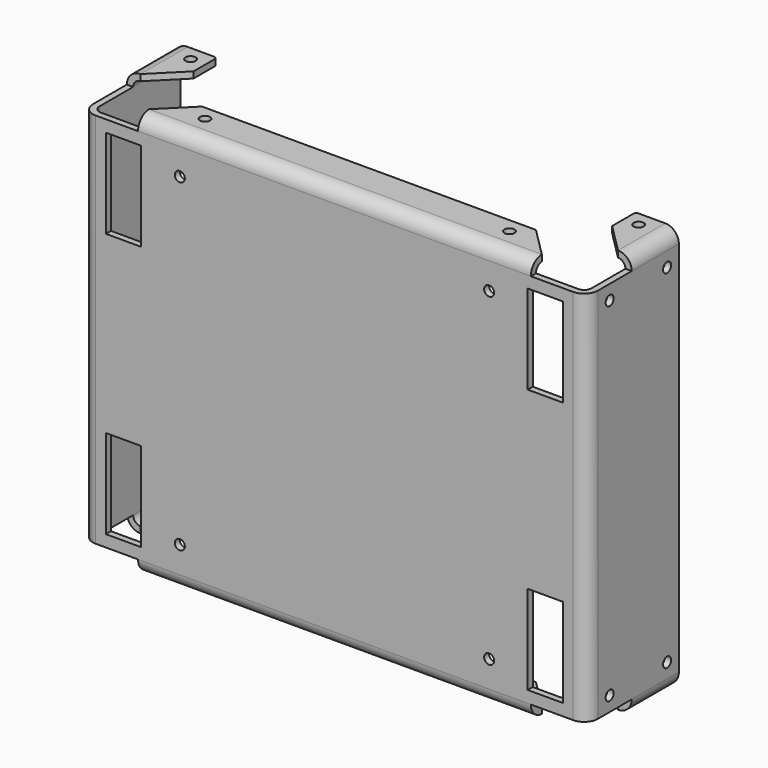
from build123d import *

# Parameters (mm, degrees)
F1_DEPTH  = 101.6
F2_W      = 1.70942
F2_H      = 15.875
F2_W_2    = 105.865218
F2_H_2    = 1.70942
F3_DEPTH  = 3.69316
F4_W      = 1.70942
F4_H      = 15.875
F4_W_2    = 105.865218
F4_H_2    = 1.70942
F5_DEPTH  = 3.69316
F6_W      = 105.865218
F6_H      = 1.70942
F7_DEPTH  = 9.92124
F8_W      = 15.875
F8_H      = 1.70942
F9_DEPTH  = 9.92124
F10_W     = 15.875
F10_H     = 1.70942
F11_DEPTH = 9.92124
F12_R     = 1.98374
F13_R     = 3.69316
F14_SIZE  = 7.9375
F15_R     = 1.35255
F16_DEPTH = 108.98632
F17_R     = 0.762
F18_R     = 1.35255
F19_DEPTH = 1.70942
F20_W     = 9.532924
F20_H     = 24
F20_R     = 1.35255
F21_DEPTH = 1.70942
F22_R     = 1.7272
F23_DEPTH = 1.70942


with BuildPart() as f1:
    # F0 (on Top) → F1 (new body)
    with BuildSketch(Plane.XY):
        Polygon((0, 29.265601), (0, 0), (-132.64642, 0), (-132.64642, 29.265601), (-134.35584, 29.265601), (-134.35584, -1.70942), (1.70942, -1.70942), (1.70942, 29.265601), align=None)
    extrude(amount=F1_DEPTH)

    # F2 (on face) → F3 (join)
    with BuildSketch(Plane(origin=(0, 0, 0), x_dir=(1, 0, 0), z_dir=(0, 0, -1))):
        with Locations((0.85471, -21.328101)):
            Rectangle(F2_W, F2_H)
        with Locations((-66.32321, 0.85471)):
            Rectangle(F2_W_2, F2_H_2)
        with Locations((-133.50113, -21.328101)):
            Rectangle(F2_W, F2_H)
    extrude(amount=F3_DEPTH)

    # F4 (on face) → F5 (join)
    with BuildSketch(Plane.XY.offset(101.6)):
        with Locations((-133.50113, 21.328101)):
            Rectangle(F4_W, F4_H)
        with Locations((0.85471, 21.328101)):
            Rectangle(F4_W, F4_H)
        with Locations((-66.32321, -0.85471)):
            Rectangle(F4_W_2, F4_H_2)
    extrude(amount=F5_DEPTH)

    # F6 (on face) → F7 (join)
    with BuildSketch(Plane(origin=(0, 0, 0), x_dir=(-1, 0, 0), z_dir=(0, 1, 0))):
        with Locations((66.32321, -2.83845)):
            Rectangle(F6_W, F6_H)
        with Locations((66.32321, 104.43845)):
            Rectangle(F6_W, F6_H)
    extrude(amount=F7_DEPTH)

    # F8 (on face) → F9 (join)
    with BuildSketch(Plane.YZ.offset(-132.64642)):
        with Locations((21.328101, 104.43845)):
            Rectangle(F8_W, F8_H)
        with Locations((21.328101, -2.83845)):
            Rectangle(F8_W, F8_H)
    extrude(amount=F9_DEPTH)

    # F10 (on face) → F11 (join)
    with BuildSketch(Plane(origin=(0, 0, 0), x_dir=(0, -1, 0), z_dir=(-1, 0, 0))):
        with Locations((-21.328101, -2.83845)):
            Rectangle(F10_W, F10_H)
        with Locations((-21.328101, 104.43845)):
            Rectangle(F10_W, F10_H)
    extrude(amount=F11_DEPTH)

    # F12
    f12_edges = [f1.edges().sort_by_distance(p)[0] for p in [
        (0, 21.328101, 103.58374),
        (-66.32321, 0, 103.58374),
        (-132.64642, 21.328101, 103.58374),
        (-132.64642, 21.328101, -1.98374),
        (-66.32321, 0, -1.98374),
        (0, 21.328101, -1.98374),
        (0, 0, 50.8),
        (-132.64642, 0, 50.8),
    ]]
    fillet(f12_edges, radius=F12_R)

    # F13
    f13_edges = [f1.edges().sort_by_distance(p)[0] for p in [
        (-134.35584, 21.328101, -3.69316),
        (-66.32321, -1.70942, -3.69316),
        (-134.35584, -1.70942, 50.8),
        (-66.32321, -1.70942, 105.29316),
        (-134.35584, 21.328101, 105.29316),
        (1.70942, 21.328101, -3.69316),
        (1.70942, -1.70942, 50.8),
        (1.70942, 21.328101, 105.29316),
    ]]
    fillet(f13_edges, radius=F13_R)

    # F14
    f14_edges = [f1.edges().sort_by_distance(p)[0] for p in [
        (-122.72518, 13.390601, 104.43845),
        (-119.255819, 9.92124, 104.43845),
        (-13.390601, 9.92124, 104.43845),
        (-9.92124, 13.390601, 104.43845),
        (-13.390601, 9.92124, -2.83845),
        (-9.92124, 13.390601, -2.83845),
        (-122.72518, 13.390601, -2.83845),
        (-119.255819, 9.92124, -2.83845),
    ]]
    chamfer(f14_edges, length=F14_SIZE)

    # F15 (on face) → F16 (cut, through all)
    with BuildSketch(Plane(origin=(0, 0, -3.69316), x_dir=(1, 0, 0), z_dir=(0, 0, -1))):
        with Locations((-25.296851, -5.95249)):
            Circle(F15_R)
        with Locations((-107.349569, -5.95249)):
            Circle(F15_R)
        with Locations((-126.69393, -25.296851)):
            Circle(F15_R)
        with Locations((-5.95249, -25.296851)):
            Circle(F15_R)
    extrude(amount=-F16_DEPTH, mode=Mode.SUBTRACT)

    # F17
    f17_edges = [f1.edges().sort_by_distance(p)[0] for p in [
        (-122.72518, 29.265601, -2.83845),
        (-122.72518, 29.265601, 104.43845),
        (-9.92124, 29.265601, 104.43845),
        (-9.92124, 29.265601, -2.83845),
    ]]
    fillet(f17_edges, radius=F17_R)

    # F18 (on face) → F19 (cut, through all)
    with BuildSketch(Plane.YZ.offset(1.70942)):
        with Locations((25.296851, 97.63125)):
            Circle(F18_R)
        with Locations((25.296851, 3.96875)):
            Circle(F18_R)
        with Locations((5.95249, 3.96875)):
            Circle(F18_R)
        with Locations((5.95249, 97.63125)):
            Circle(F18_R)
    extrude(amount=-F19_DEPTH, mode=Mode.SUBTRACT)

    # F20 (on face) → F21 (cut, through all)
    with BuildSketch(Plane.XZ.offset(1.70942)):
        with Locations((-9.48374, 15.175)):
            Rectangle(F20_W, F20_H)
        with Locations((-123.16268, 15.175)):
            Rectangle(F20_W, F20_H)
        with Locations((-123.16268, 86.425)):
            Rectangle(F20_W, F20_H)
        with Locations((-9.48374, 86.425)):
            Rectangle(F20_W, F20_H)
        with Locations((-24.64566, 7.14375)):
            Circle(F20_R)
        with Locations((-108.00076, 7.14375)):
            Circle(F20_R)
        with Locations((-108.00076, 94.45625)):
            Circle(F20_R)
        with Locations((-24.64566, 94.45625)):
            Circle(F20_R)
    extrude(amount=-F21_DEPTH, mode=Mode.SUBTRACT)

    # F22 (on face) → F23 (cut, through all)
    with BuildSketch(Plane(origin=(-134.35584, 0, 0), x_dir=(0, -1, 0), z_dir=(-1, 0, 0))):
        with Locations((-14.632788, 50.8)):
            Circle(F22_R)
    extrude(amount=-F23_DEPTH, mode=Mode.SUBTRACT)


solid = f1.part
